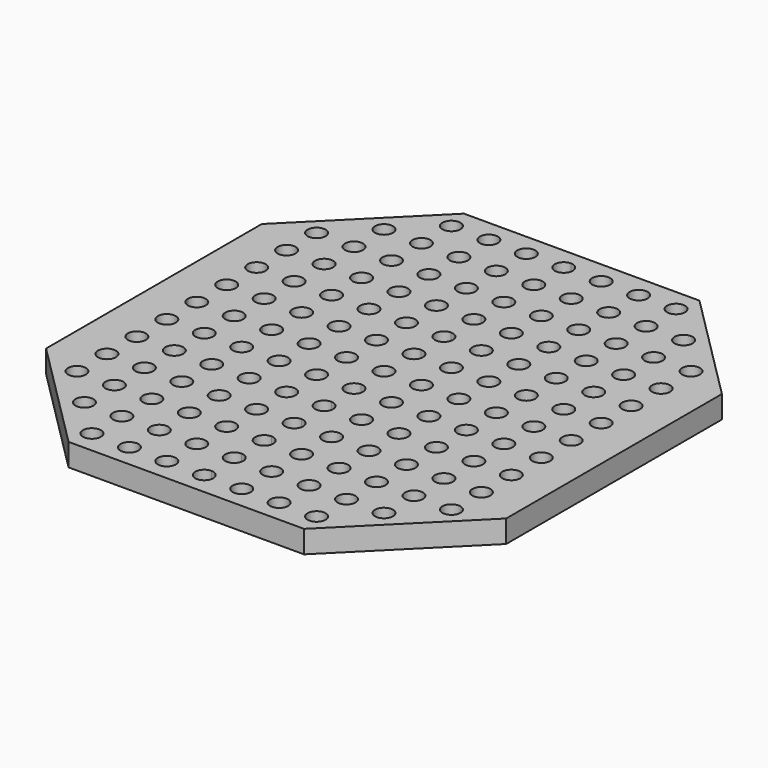
from build123d import *

# Parameters (mm, degrees)
F1_DEPTH = 15
F2_R     = 6
F3_DEPTH = 25


with BuildPart() as f1:
    # F0 (on Top) → F1 (new body)
    with BuildSketch(Plane.XY):
        Polygon((78.6, 165), (0, 165), (0, 0), (153.6, 0), (153.6, 90), align=None)
    extrude(amount=-F1_DEPTH)

    # F2 (on Top) → F3 (cut)
    with BuildSketch(Plane.XY):
        Circle(F2_R)
        with Locations((0, 25)):
            Circle(F2_R)
        with Locations((0, 50)):
            Circle(F2_R)
        with Locations((0, 75)):
            Circle(F2_R)
        with Locations((0, 100)):
            Circle(F2_R)
        with Locations((0, 125)):
            Circle(F2_R)
        with Locations((0, 150)):
            Circle(F2_R)
        with Locations((25, 0)):
            Circle(F2_R)
        with Locations((25, 25)):
            Circle(F2_R)
        with Locations((25, 50)):
            Circle(F2_R)
        with Locations((25, 75)):
            Circle(F2_R)
        with Locations((25, 100)):
            Circle(F2_R)
        with Locations((25, 125)):
            Circle(F2_R)
        with Locations((25, 150)):
            Circle(F2_R)
        with Locations((50, 0)):
            Circle(F2_R)
        with Locations((50, 25)):
            Circle(F2_R)
        with Locations((50, 50)):
            Circle(F2_R)
        with Locations((50, 75)):
            Circle(F2_R)
        with Locations((50, 100)):
            Circle(F2_R)
        with Locations((50, 125)):
            Circle(F2_R)
        with Locations((50, 150)):
            Circle(F2_R)
        with Locations((75, 0)):
            Circle(F2_R)
        with Locations((75, 25)):
            Circle(F2_R)
        with Locations((75, 50)):
            Circle(F2_R)
        with Locations((75, 75)):
            Circle(F2_R)
        with Locations((75, 100)):
            Circle(F2_R)
        with Locations((75, 125)):
            Circle(F2_R)
        with Locations((75, 150)):
            Circle(F2_R)
        with Locations((100, 0)):
            Circle(F2_R)
        with Locations((100, 25)):
            Circle(F2_R)
        with Locations((100, 50)):
            Circle(F2_R)
        with Locations((100, 75)):
            Circle(F2_R)
        with Locations((100, 100)):
            Circle(F2_R)
        with Locations((100, 125)):
            Circle(F2_R)
        with Locations((125, 0)):
            Circle(F2_R)
        with Locations((125, 25)):
            Circle(F2_R)
        with Locations((125, 50)):
            Circle(F2_R)
        with Locations((125, 75)):
            Circle(F2_R)
        with Locations((125, 100)):
            Circle(F2_R)
    extrude(amount=-F3_DEPTH, mode=Mode.SUBTRACT)

    # F4: F1 across plane


with BuildPart() as f1_1:
    add(f1.part)
    add(f1.part.mirror(Plane.YZ))

    # F5: F1 across plane


with BuildPart() as f1_2:
    add(f1_1.part)
    add(f1_1.part.mirror(Plane.XZ))


solid = f1_2.part
